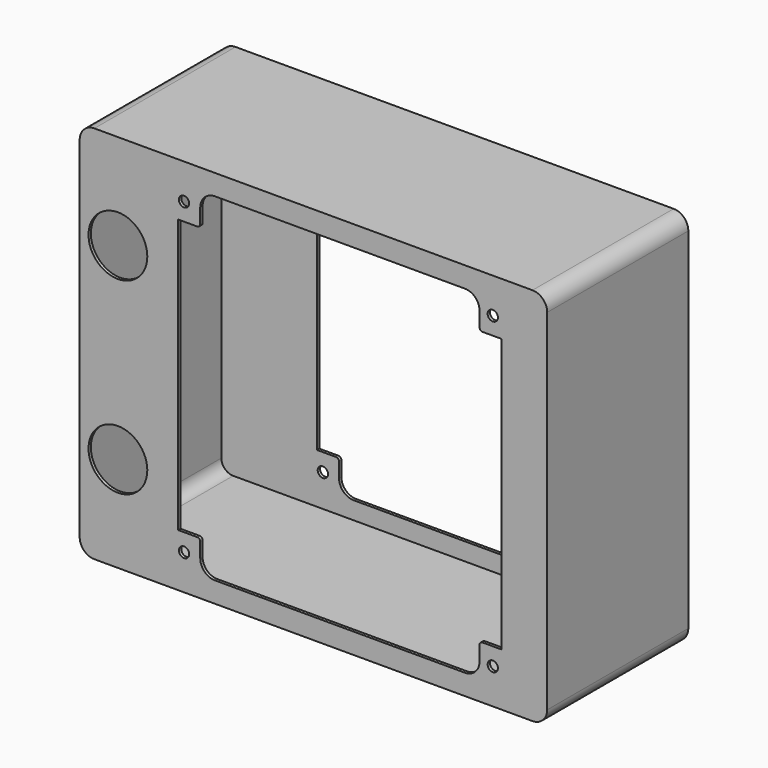
from build123d import *

# Parameters (mm, degrees)
F0_W      = 159
F0_H      = 129
F1_DEPTH  = 60
F2_R      = 5
F3_W      = 7.5
F3_H      = 93
F3_W_2    = 95
F3_H_2    = 11
F4_DEPTH  = 97
F5_R      = 5
F6_R      = 1
F7_T      = -1
F9_D      = 3.505
F10_R     = 10
F11_DEPTH = 10


with BuildPart() as f1:
    # F0 (on Front) → F1 (new body)
    with BuildSketch(Plane.XZ):
        with Locations((5.1108691841, -2.7578008189)):
            Rectangle(F0_W, F0_H)
    extrude(amount=F1_DEPTH)

    # F2
    f2_edges = [f1.edges().sort_by_distance(p)[0] for p in [
        (84.610869, -30, -67.257801),
        (84.610869, -30, 61.742199),
        (-74.389131, -30, 61.742199),
        (-74.389131, -30, -67.257801),
    ]]
    fillet(f2_edges, radius=F2_R)

    # F3 (on face) → F4 (cut)
    with BuildSketch(Plane.XZ.offset(60)):
        with Locations((-37.1391308159, -2.7578008189)):
            Rectangle(F3_W, F3_H)
        with Locations((14.1108691841, -2.7578008189)):
            Rectangle(F3_W_2, F3_H)
        with Locations((14.1108691841, 49.2421991811)):
            Rectangle(F3_W_2, F3_H_2)
        with Locations((65.3608691841, -2.7578008189)):
            Rectangle(F3_W, F3_H)
        with Locations((14.1108691841, -54.7578008189)):
            Rectangle(F3_W_2, F3_H_2)
    extrude(amount=-F4_DEPTH, mode=Mode.SUBTRACT)

    # F5
    f5_edges = [f1.edges().sort_by_distance(p)[0] for p in [
        (-33.389131, -30, 54.742199),
        (61.610869, -30, 54.742199),
        (61.610869, -30, -60.257801),
        (-33.389131, -30, -60.257801),
    ]]
    fillet(f5_edges, radius=F5_R)

    # F6
    f6_edges = [f1.edges().sort_by_distance(p)[0] for p in [
        (-33.389131, -30, 43.742199),
        (61.610869, -30, 43.742199),
        (61.610869, -30, -49.257801),
        (-33.389131, -30, -49.257801),
    ]]
    fillet(f6_edges, radius=F6_R)

    # F7
    f7_openings = [f1.faces().sort_by_distance(p)[0] for p in [
        (-37.639131, -30, 43.742199),
        (-33.389131, -30, 47.242199),
        (-31.924665, -30, 53.277733),
        (14.110869, -30, 54.742199),
        (60.146403, -30, 53.277733),
        (61.610869, -30, 47.242199),
        (65.860869, -30, 43.742199),
        (69.110869, -30, -2.757801),
        (65.860869, -30, -49.257801),
        (61.610869, -30, -52.757801),
        (60.146403, -30, -58.793335),
        (14.110869, -30, -60.257801),
        (-31.924665, -30, -58.793335),
        (-33.389131, -30, -52.757801),
        (-37.639131, -30, -49.257801),
        (-40.889131, -30, -2.757801),
        (-33.682024, -30, 44.035092),
        (61.903762, -30, 44.035092),
        (61.903762, -30, -49.550694),
        (-33.682024, -30, -49.550694),
    ]]
    offset(amount=F7_T, openings=f7_openings)

    # F9 (through all)
    with Locations(Plane.XZ.offset(60)):
        with Locations((-38.8891308159, 49.7421991811), (66.1108691841, 49.7421991811), (66.1108691841, -55.2578008189), (-38.8891308159, -55.2578008189)):
            Hole(F9_D / 2)

    # F10 (on face) → F11 (cut)
    with BuildSketch(Plane.XZ.offset(60)):
        with Locations((-61.3891308159, 29.2421991811)):
            Circle(F10_R)
        with Locations((-61.3891308159, -34.7578008189)):
            Circle(F10_R)
    extrude(amount=-F11_DEPTH, mode=Mode.SUBTRACT)


solid = f1.part
